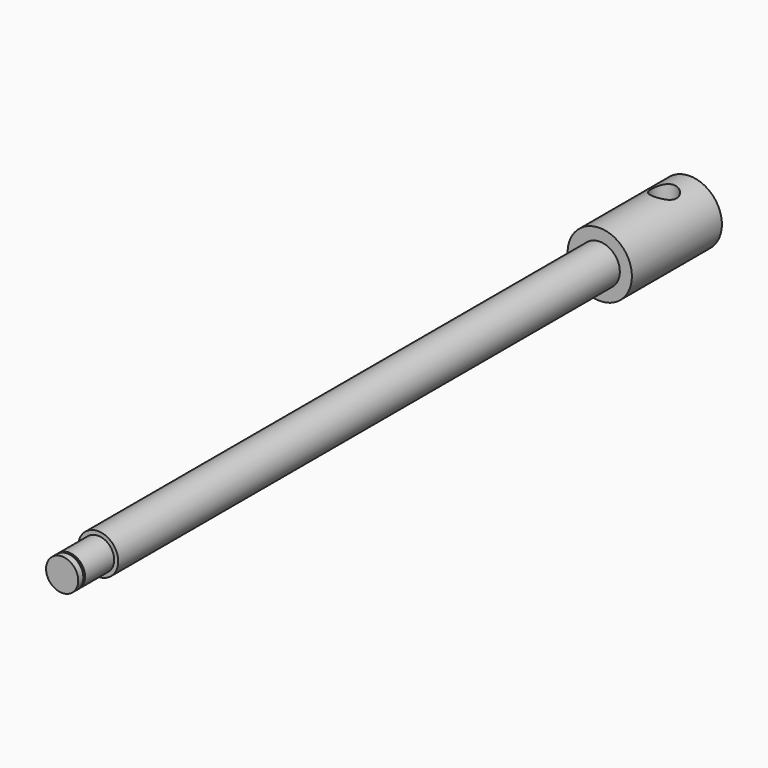
from build123d import *

# Parameters (mm, degrees)
F0_R          = 12.7
F1_DEPTH      = 44.45
F2_R          = 7.9375
F3_DEPTH      = 247.65
F4_R          = 6.35
F5_DEPTH      = 17.78
F6_W          = 0.8584746265
F6_H          = 1.4799516648
F8_R          = 4.953
F9_DEPTH      = 25.4
F9_DEPTH_BACK = 25.4


with BuildPart() as f1:
    # F0 (on Front) → F1 (new body)
    with BuildSketch(Plane.XZ):
        Circle(F0_R)
    extrude(amount=-F1_DEPTH)

    # F2 (on face) → F3 (join)
    with BuildSketch(Plane.XZ):
        Circle(F2_R)
    extrude(amount=F3_DEPTH)

    # F4 (on face) → F5 (join)
    with BuildSketch(Plane.XZ.offset(247.65)):
        Circle(F4_R)
    extrude(amount=F5_DEPTH)

    # F6 (on Right) → F7 (revolve, cut)
    with BuildSketch(Plane.YZ):
        with Locations((-262.4607626867, 6.4914319664)):
            Rectangle(F6_W, F6_H)
    revolve(axis=Axis((0, -260.4791074991, 0), (0, 1, 0)), mode=Mode.SUBTRACT)

    # F8 (on Top) → F9 (cut, two sides)
    with BuildSketch(Plane.XY) as f9_sk:
        with Locations((0, 31.75)):
            Circle(F8_R)
    extrude(amount=-F9_DEPTH, mode=Mode.SUBTRACT)
    extrude(f9_sk.sketch, amount=F9_DEPTH_BACK, mode=Mode.SUBTRACT)


solid = f1.part
